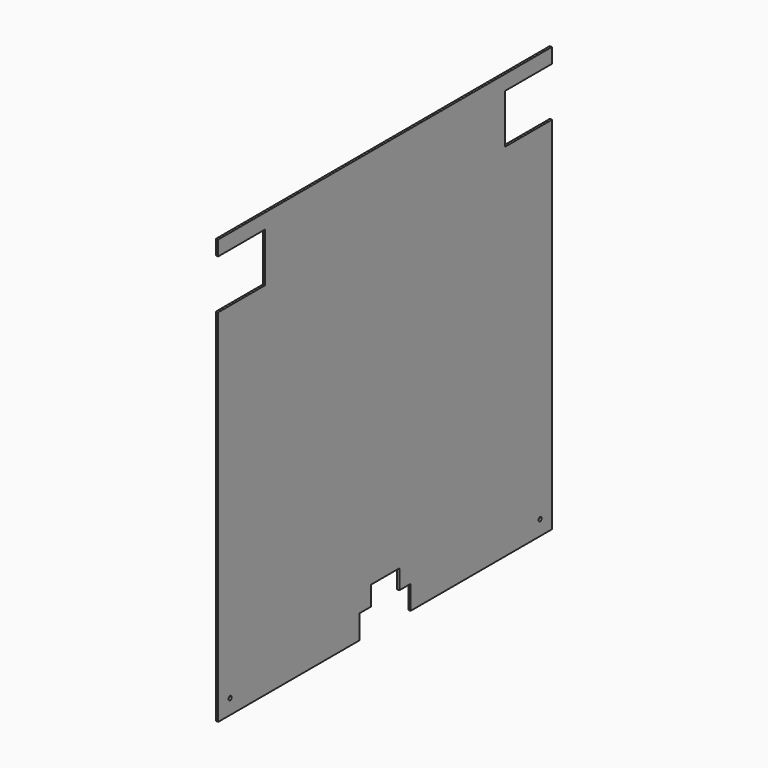
from build123d import *

# Parameters (mm, degrees)
F0_R     = 2.65
F0_W     = 78.782992
F0_H     = 20
F1_DEPTH = 3


with BuildPart() as f1:
    # F0 (on Right) → F1 (new body)
    with BuildSketch(Plane.YZ):
        Polygon((280, -270), (280, -260), (280, 214), (201.217008, 214), (201.217008, 280), (201.217008, 300), (-201.217008, 300), (-201.217008, 280), (-201.217008, 214), (-280, 214), (-280, -270), (-43, -270), (-43, -238), (-24, -238), (-24, -212), (24, -212), (24, -238), (43, -238), (43, -270), align=None)
        with Locations((-260, -250)):
            Circle(F0_R, mode=Mode.SUBTRACT)
        with Locations((260, -250)):
            Circle(F0_R, mode=Mode.SUBTRACT)
        with Locations((240.608504, 290)):
            Rectangle(F0_W, F0_H)
        with Locations((-240.608504, 290)):
            Rectangle(F0_W, F0_H)
    extrude(amount=F1_DEPTH)


solid = f1.part
